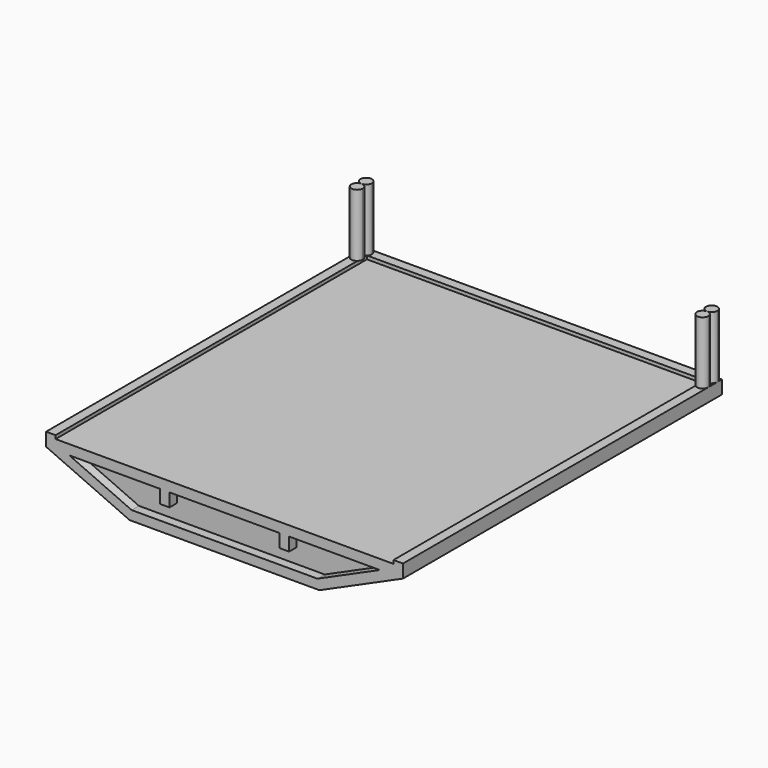
from build123d import *

# Parameters (mm, degrees)
F1_DEPTH  = 7
F2_W      = 188
F2_H      = 5
F2_H_2    = 5.0000011921
F2_H_3    = 4.999999702
F3_DEPTH  = 5
F4_W      = 4.9999976158
F4_H      = 210
F4_W_2    = 5
F5_DEPTH  = 7
F6_W      = 188
F6_H      = 210
F7_DEPTH  = 0.2
F9_DEPTH  = 5
F10_DEPTH = 5
F12_DEPTH = 0.2
F14_START = 7.01
F14_DEPTH = 32.99


with BuildPart() as f1:
    # F0 (on Top) → F1 (new body)
    with BuildSketch(Plane.XY):
        Polygon((188, 0), (0, 0), (0, -210), (5, -210), (5, -5), (183, -5), (183, -210), (188, -210), align=None)
    extrude(amount=F1_DEPTH)

    # F2 (on Top) → F3 (join)
    with BuildSketch(Plane.XY):
        with Locations((94, -207.5)):
            Rectangle(F2_W, F2_H)
        with Locations((94, -152.5)):
            Rectangle(F2_W, F2_H)
        with Locations((94, -97.499999404)):
            Rectangle(F2_W, F2_H_2)
        with Locations((94, -42.4999989569)):
            Rectangle(F2_W, F2_H_3)
    extrude(amount=F3_DEPTH)

    # F4 (on Top) → F5 (join)
    with BuildSketch(Plane.XY):
        with Locations((62.4999988079, -105)):
            Rectangle(F4_W, F4_H)
        with Locations((125.5, -105)):
            Rectangle(F4_W_2, F4_H)
    extrude(amount=-F5_DEPTH)

    # F6 (on face) → F7 (join)
    with BuildSketch(Plane.XY.offset(5)):
        with Locations((94, -105)):
            Rectangle(F6_W, F6_H)
    extrude(amount=F7_DEPTH)

    # F8 (on face) → F9 (join)
    with BuildSketch(Plane.XZ.offset(210)):
        Polygon((44, -19.7), (94, -19.7), (144, -19.7), (188, 0), (188, 4.9999998882), (0, 4.9999998882), (0, 0), align=None)
        Polygon((175.7642594912, -1.118e-07), (142.9317724312, -14.7), (94, -14.7), (45.0682275688, -14.7), (12.2357405088, -1.118e-07), align=None, mode=Mode.SUBTRACT)
    extrude(amount=-F9_DEPTH)

    # F8 (on face) → F10 (join)
    with BuildSketch(Plane.XZ.offset(210)):
        Polygon((44, -19.7), (94, -19.7), (144, -19.7), (188, 0), (188, 4.9999998882), (0, 4.9999998882), (0, 0), align=None)
        Polygon((175.7642594912, -1.118e-07), (142.9317724312, -14.7), (94, -14.7), (45.0682275688, -14.7), (12.2357405088, -1.118e-07), align=None, mode=Mode.SUBTRACT)
    extrude(amount=-F10_DEPTH)

    # F11 (on face) → F12 (join)
    with BuildSketch(Plane(origin=(0, -205, 0), x_dir=(-1, 0, 0), z_dir=(0, 1, 0))):
        Polygon((0, 0), (-188, 0), (-144, -19.7), (-44, -19.7), align=None)
    extrude(amount=-F12_DEPTH)


with BuildPart() as f14:
    # F13 (on Top) → F14 (new body)
    with BuildSketch(Plane.XY.offset(F14_START)):
        with BuildLine():
            ThreePointArc((3, -6), (5.1213203436, -5.1213203436), (6, -3))
            ThreePointArc((6, -3), (0.8786796564, -0.8786796564), (3, -6))
        make_face()
    extrude(amount=F14_DEPTH)

    # F13 (on Top) → F14, piece 2 (join)
    with BuildSketch(Plane.XY.offset(F14_START)):
        with BuildLine():
            ThreePointArc((6, -9), (5.1213203436, -6.8786796564), (3, -6))
            ThreePointArc((3, -6), (0.8786796564, -11.1213203436), (6, -9))
        make_face()
    extrude(amount=F14_DEPTH)


with BuildPart() as f14b:
    # F13 (on Top) → F14, piece 3 (new body)
    with BuildSketch(Plane.XY.offset(F14_START)):
        with BuildLine():
            ThreePointArc((185, -6), (182.8786796564, -11.1213203436), (188, -9))
            ThreePointArc((188, -9), (187.1213203436, -6.8786796564), (185, -6))
        make_face()
    extrude(amount=F14_DEPTH)

    # F13 (on Top) → F14, piece 4 (join)
    with BuildSketch(Plane.XY.offset(F14_START)):
        with BuildLine():
            ThreePointArc((188, -3), (182.8786796564, -0.8786796564), (185, -6))
            ThreePointArc((185, -6), (187.1213203436, -5.1213203436), (188, -3))
        make_face()
    extrude(amount=F14_DEPTH)


solid = Compound([f1.part, f14.part, f14b.part])
